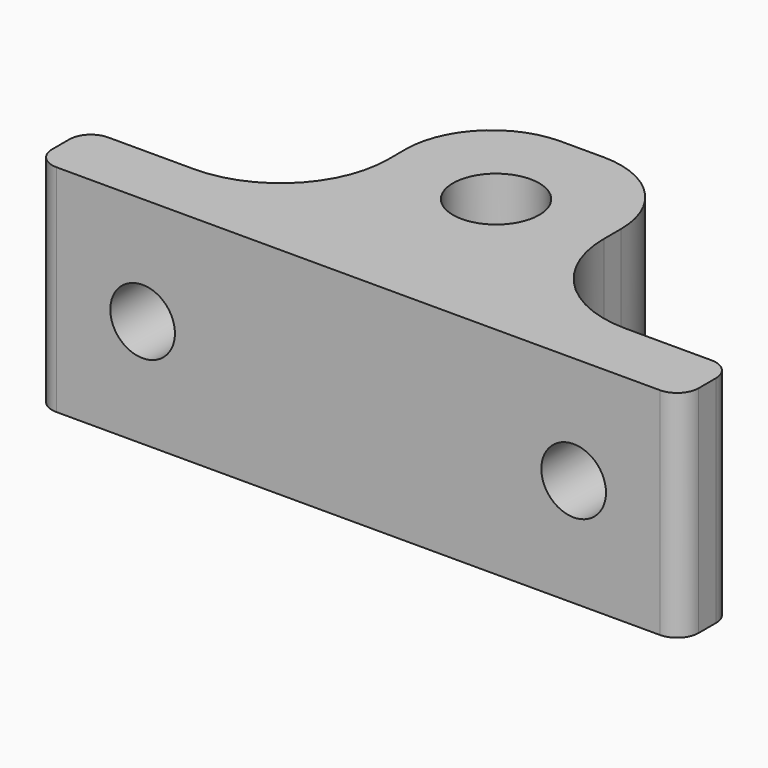
from build123d import *

# Parameters (mm, degrees)
F0_R     = 2
F1_DEPTH = 10
F2_R     = 2
F3_DEPTH = 4
F4_R     = 1.5
F5_DEPTH = 4


with BuildPart() as f1:
    # F0 (on Top) → F1 (new body)
    with BuildSketch(Plane.XY):
        with BuildLine():
            Line((-14, -1.5), (14, -1.5))
            ThreePointArc((14, -1.5), (14.707107, -1.207107), (15, -0.5))
            Line((15, -0.5), (15, 0.5))
            ThreePointArc((15, 0.5), (14.707107, 1.207107), (14, 1.5))
            Line((14, 1.5), (10, 1.5))
            ThreePointArc((10, 1.5), (6.464466, 2.964466), (5, 6.5))
            Line((5, 6.5), (5, 7.5))
            ThreePointArc((5, 7.5), (3.828427, 10.328427), (1, 11.5))
            Line((1, 11.5), (-1, 11.5))
            ThreePointArc((-1, 11.5), (-3.828427, 10.328427), (-5, 7.5))
            Line((-5, 7.5), (-5, 6.5))
            ThreePointArc((-5, 6.5), (-6.464466, 2.964466), (-10, 1.5))
            Line((-10, 1.5), (-14, 1.5))
            ThreePointArc((-14, 1.5), (-14.707107, 1.207107), (-15, 0.5))
            Line((-15, 0.5), (-15, -0.5))
            ThreePointArc((-15, -0.5), (-14.707107, -1.207107), (-14, -1.5))
        make_face()
        with Locations((0, 6.5)):
            Circle(F0_R, mode=Mode.SUBTRACT)
    extrude(amount=-F1_DEPTH)

    # F2 (on face) → F3 (cut)
    with BuildSketch(Plane(origin=(0, 11.5, 0), x_dir=(-1, 0, 0), z_dir=(0, 1, 0))):
        with Locations((0, -4.982779)):
            Circle(F2_R)
    extrude(amount=-F3_DEPTH, mode=Mode.SUBTRACT)

    # F4 (on face) → F5 (cut)
    with BuildSketch(Plane.XZ.offset(1.5)):
        with Locations((10, -5)):
            Circle(F4_R)
        with Locations((-10, -5)):
            Circle(F4_R)
    extrude(amount=-F5_DEPTH, mode=Mode.SUBTRACT)


solid = f1.part
